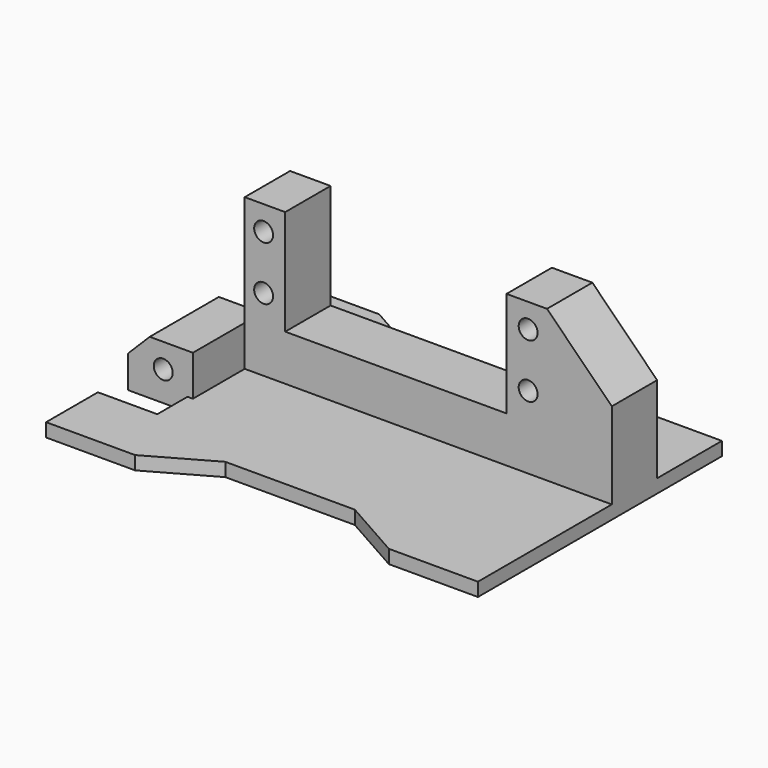
from build123d import *

# Parameters (mm, degrees)
CYLINDER016_R             = 1.75
CYLINDER016_DEPTH         = 70
CYLINDER016_ROLL_ANGLE    = -90
CYLINDER026_R             = 1.75
CYLINDER026_DEPTH         = 24.5
CYLINDER026_PITCH_ANGLE   = 90
CYLINDER027_R             = 3
CYLINDER027_DEPTH         = 21.5
CYLINDER027_PITCH_ANGLE   = 90
FUSION007_PITCH_ANGLE     = -90
FUSION007_PLACEMENT_ANGLE = -180
FUSION008_PITCH_ANGLE     = -90
FUSION008_PLACEMENT_ANGLE = -180
FUSION005_PITCH_ANGLE     = -90
FUSION005_PLACEMENT_ANGLE = -180
FUSION006_PITCH_ANGLE     = -90
FUSION006_PLACEMENT_ANGLE = -180
BOX021_W                  = 37
BOX021_H                  = 41
BOX021_DEPTH              = 25
BOX021_PITCH_ANGLE        = -90
BOX021_PLACEMENT_ANGLE    = -180
FUSION012_PITCH_ANGLE     = -90
FUSION012_PLACEMENT_ANGLE = -90
BOX007_W                  = 68
BOX007_H                  = 10.5
BOX007_DEPTH              = 29
CHAMFER_SIZE              = 12
BOX057_W                  = 12
BOX057_H                  = 16
BOX057_DEPTH              = 10
PAD005_DEPTH              = 2.5
CHAMFER009_SIZE           = 4


with BuildPart() as cylinder016:
    # Cylinder016 → Cylinder016 (new body)
    with BuildSketch(Plane.XY):
        Circle(CYLINDER016_R)
    extrude(amount=CYLINDER016_DEPTH)


with BuildPart() as cylinder016_1:
    # Cylinder016 roll: moved
    add(cylinder016.part.rotate(Axis((0, 0, 0), (1, 0, 0)), CYLINDER016_ROLL_ANGLE))


with BuildPart() as cylinder016_2:
    # Cylinder016 placement: moved
    add(cylinder016_1.part.moved(Location((-40.5, -5, -149.5))))


with BuildPart() as joint_d010:
    # Cylinder026 → Cylinder026 (new body)
    with BuildSketch(Plane.XY):
        Circle(CYLINDER026_R)
    extrude(amount=CYLINDER026_DEPTH)


with BuildPart() as joint_d010_1:
    # Cylinder026 pitch: moved
    add(joint_d010.part.rotate(Axis((0, 0, 0), (0, 1, 0)), CYLINDER026_PITCH_ANGLE))


with BuildPart() as joint_d010_2:
    # Cylinder026 placement: moved
    add(joint_d010_1.part.moved(Location((16, -24.5, 7))))


with BuildPart() as joint_d011:
    # Cylinder027 → Cylinder027 (new body)
    with BuildSketch(Plane.XY):
        Circle(CYLINDER027_R)
    extrude(amount=CYLINDER027_DEPTH)


with BuildPart() as joint_d011_1:
    # Cylinder027 pitch: moved
    add(joint_d011.part.rotate(Axis((0, 0, 0), (0, 1, 0)), CYLINDER027_PITCH_ANGLE))


with BuildPart() as joint_d011_2:
    # Cylinder027 placement: moved
    add(joint_d011_1.part.moved(Location((37, -24.5, 7))))


with BuildPart() as fusion007:
    # Fusion007 base: copy of Joint-D011
    add(joint_d011_2.part)

    # Fusion007: union Joint-D010
    add(joint_d010_2.part)


with BuildPart() as fusion007_1:
    # Fusion007 pitch: moved
    add(fusion007.part.rotate(Axis((0, 0, 0), (0, 1, 0)), FUSION007_PITCH_ANGLE))


with BuildPart() as fusion007_2:
    # Fusion007 placement: moved
    add(fusion007_1.part.moved(Location((-12, -39.5, 0))).rotate(Axis((-12, -39.5, 0), (0, 0, 1)), FUSION007_PLACEMENT_ANGLE))


with BuildPart() as fusion008:
    # Fusion008 base: copy of Joint-D011
    add(joint_d011_2.part)

    # Fusion008: union Joint-D010
    add(joint_d010_2.part)


with BuildPart() as fusion008_1:
    # Fusion008 pitch: moved
    add(fusion008.part.rotate(Axis((0, 0, 0), (0, 1, 0)), FUSION008_PITCH_ANGLE))


with BuildPart() as fusion008_2:
    # Fusion008 placement: moved
    add(fusion008_1.part.moved(Location((-2, -39.5, 0))).rotate(Axis((-2, -39.5, 0), (0, 0, 1)), FUSION008_PLACEMENT_ANGLE))


with BuildPart() as fusion005:
    # Fusion005 base: copy of Joint-D011
    add(joint_d011_2.part)

    # Fusion005: union Joint-D010
    add(joint_d010_2.part)


with BuildPart() as fusion005_1:
    # Fusion005 pitch: moved
    add(fusion005.part.rotate(Axis((0, 0, 0), (0, 1, 0)), FUSION005_PITCH_ANGLE))


with BuildPart() as fusion005_2:
    # Fusion005 placement: moved
    add(fusion005_1.part.moved(Location((-12, 9.5, 0))).rotate(Axis((-12, 9.5, 0), (0, 0, 1)), FUSION005_PLACEMENT_ANGLE))


with BuildPart() as fusion006:
    # Fusion006 base: copy of Joint-D011
    add(joint_d011_2.part)

    # Fusion006: union Joint-D010
    add(joint_d010_2.part)


with BuildPart() as fusion006_1:
    # Fusion006 pitch: moved
    add(fusion006.part.rotate(Axis((0, 0, 0), (0, 1, 0)), FUSION006_PITCH_ANGLE))


with BuildPart() as fusion006_2:
    # Fusion006 placement: moved
    add(fusion006_1.part.moved(Location((-2, 9.5, 0))).rotate(Axis((-2, 9.5, 0), (0, 0, 1)), FUSION006_PLACEMENT_ANGLE))


with BuildPart() as fusion012:
    # Box021 → Box021 (new body)
    with BuildSketch(Plane.XY):
        with Locations((18.5, 20.5)):
            Rectangle(BOX021_W, BOX021_H)
    extrude(amount=BOX021_DEPTH)


with BuildPart() as fusion012_1:
    # Box021 pitch: moved
    add(fusion012.part.rotate(Axis((0, 0, 0), (0, 1, 0)), BOX021_PITCH_ANGLE))


with BuildPart() as fusion012_2:
    # Box021 placement: moved
    add(fusion012_1.part.moved(Location((-10, 30, -1))).rotate(Axis((-10, 30, -1), (0, 0, 1)), BOX021_PLACEMENT_ANGLE))

    # Fusion012: union Fusion007, Fusion008, Fusion005, Fusion006
    add(fusion007_2.part)
    add(fusion008_2.part)
    add(fusion005_2.part)
    add(fusion006_2.part)


with BuildPart() as fusion012_3:
    # Fusion012 pitch: moved
    add(fusion012_2.part.rotate(Axis((0, 0, 0), (0, 1, 0)), FUSION012_PITCH_ANGLE))


with BuildPart() as fusion012_4:
    # Fusion012 placement: moved
    add(fusion012_3.part.moved(Location((-16.5, -5, -134))).rotate(Axis((-16.5, -5, -134), (0, 0, 1)), FUSION012_PLACEMENT_ANGLE))


with BuildPart() as chamfer_body:
    # Box007 → Box007 (new body)
    with BuildSketch(Plane(origin=(-35, 18, -153.5), x_dir=(1, 0, 0), z_dir=(0, 0, 1))):
        with Locations((34, 5.25)):
            Rectangle(BOX007_W, BOX007_H)
    extrude(amount=BOX007_DEPTH)

    # Chamfer
    chamfer_edges = [chamfer_body.edges().sort_by_distance(p)[0] for p in [
        (33, 23.25, -124.5),
    ]]
    chamfer(chamfer_edges, length=CHAMFER_SIZE)


with BuildPart() as cube060:
    # Box057 → Box057 (new body)
    with BuildSketch(Plane(origin=(-47, 24.5, -155), x_dir=(1, 0, 0), z_dir=(0, 0, 1))):
        with Locations((6, 8)):
            Rectangle(BOX057_W, BOX057_H)
    extrude(amount=BOX057_DEPTH)


with BuildPart() as chamfer009:
    # Sketch007 → Pad005 (new body)
    with BuildSketch(Plane(origin=(0, 0, -155), x_dir=(1, 0, 0), z_dir=(0, 0, -1))):
        Polygon((-47, -17.5), (-47, -3), (-30.5, -3), (-19, -9.5), (5, -9.5), (16.5, -3), (33, -3), (33, -59.5), (16.5, -59.5), (5, -53), (-19, -53), (-30.5, -59.5), (-47, -59.5), (-47, -47.5), (-36, -47.5), (-36, -17.5), align=None)
    extrude(amount=-PAD005_DEPTH)

    # Fusion: union Chamfer body, Cube060
    add(chamfer_body.part)
    add(cube060.part)

    # Cut083: cut Fusion012
    add(fusion012_4.part, mode=Mode.SUBTRACT)

    # Cut084: cut Cylinder016
    add(cylinder016_2.part, mode=Mode.SUBTRACT)

    # Chamfer009
    chamfer009_edges = [chamfer009.edges().sort_by_distance(p)[0] for p in [
        (-47, 32.5, -145),
    ]]
    chamfer(chamfer009_edges, length=CHAMFER009_SIZE)


with BuildPart() as chamfer009_1:
    # Chamfer009 placement: moved
    add(chamfer009.part.moved(Location((0, 0, 94))))


with BuildPart() as clone014:
    # Part__Mirroring031: instance of Chamfer009
    add(chamfer009_1.part.mirror(Plane(origin=(0, 0, 0), x_dir=(1, 0, 0), z_dir=(0, 1, 0))))


with BuildPart() as clone014_1:
    # Clone014 placement: moved
    add(clone014.part.moved(Location((0, 0, -70.710678))))


solid = clone014_1.part
